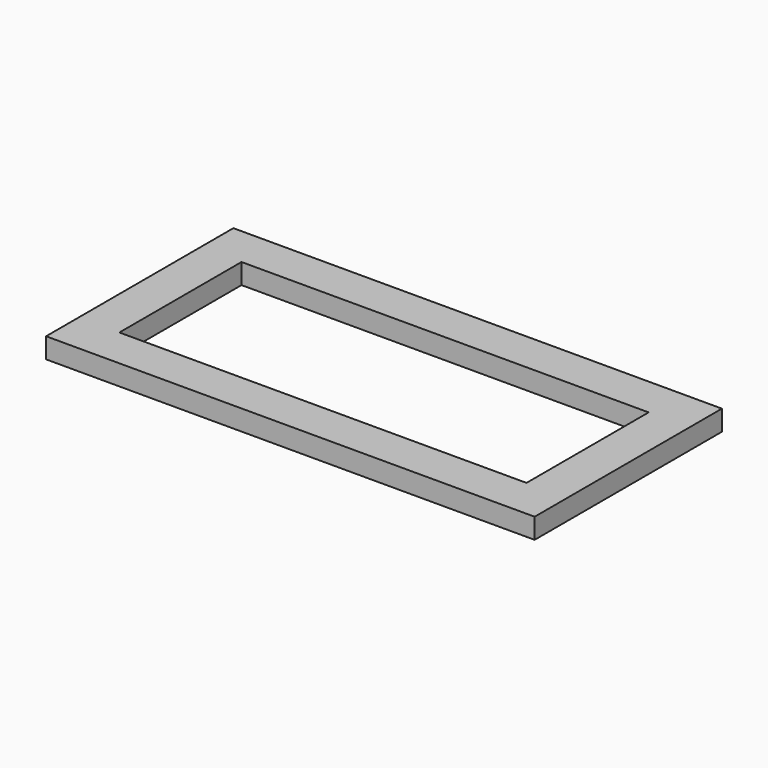
from build123d import *

# Parameters (mm, degrees)
SKETCH_W   = 48
SKETCH_H   = 23
SKETCH_W_2 = 40
SKETCH_H_2 = 15
PAD_DEPTH  = 2


with BuildPart() as part:
    # Sketch → Pad (new body)
    with BuildSketch(Plane.XY):
        with Locations((24, 11.5)):
            Rectangle(SKETCH_W, SKETCH_H)
        with Locations((24, 11.5)):
            Rectangle(SKETCH_W_2, SKETCH_H_2, mode=Mode.SUBTRACT)
    extrude(amount=PAD_DEPTH)


solid = part.part
